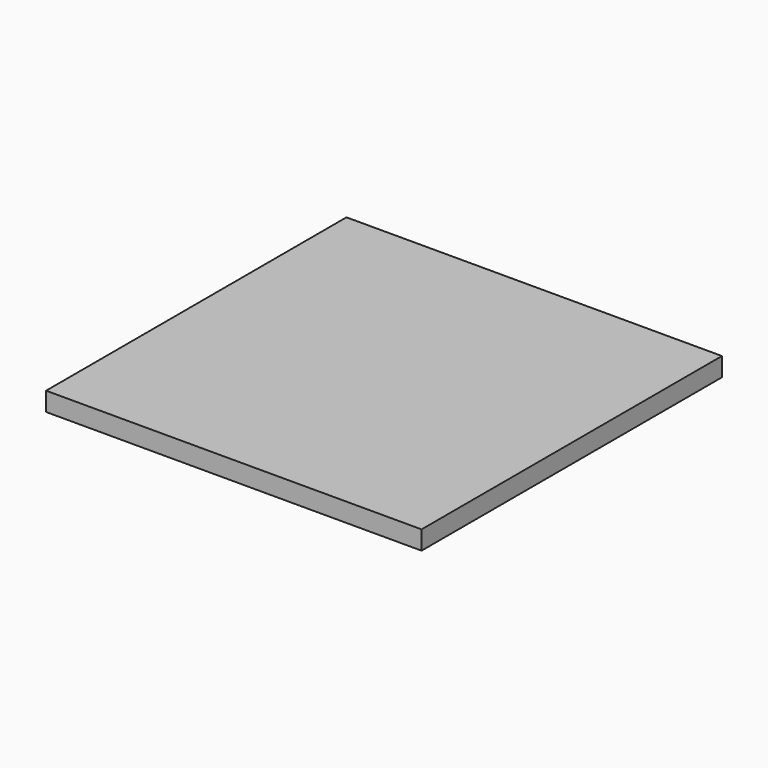
from build123d import *

# Parameters (mm, degrees)
SKETCH_W  = 20
SKETCH_H  = 20
PAD_DEPTH = 1


with BuildPart() as part:
    # Sketch → Pad (new body)
    with BuildSketch(Plane.XY):
        Rectangle(SKETCH_W, SKETCH_H)
    extrude(amount=PAD_DEPTH)


solid = part.part
